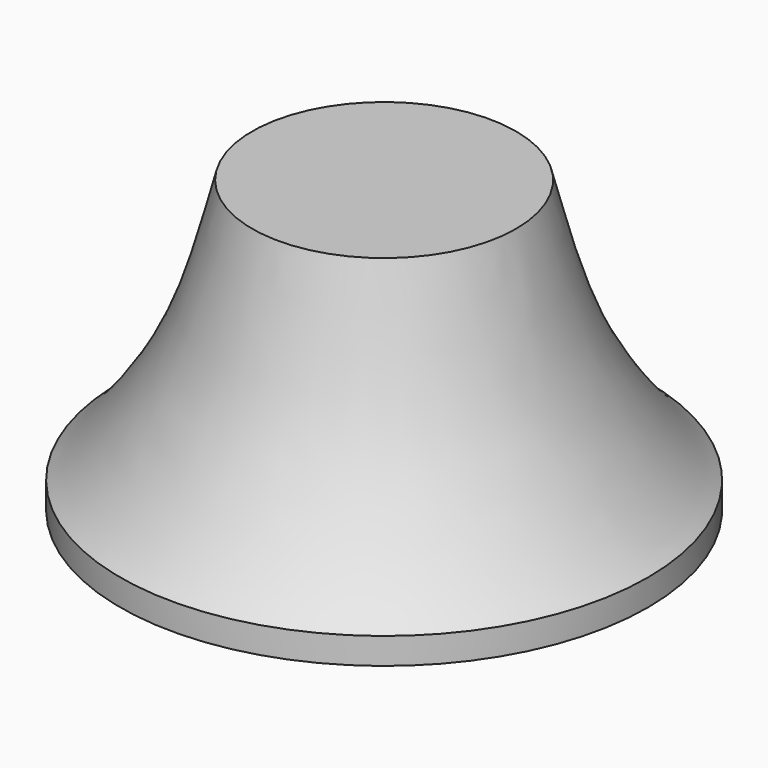
from build123d import *

# Parameters (mm, degrees)
F2_R     = 50
F3_DEPTH = 5
F4_T     = -2.5


with BuildPart() as f1:
    # F0 (on Front) → F1 (revolve)
    with BuildSketch(Plane.XZ):
        with BuildLine():
            Line((25, 50), (0, 50))
            Line((0, 50), (0, 0))
            Line((0, 0), (50, 0))
            add(Edge.make_bspline(
                [(25, 50), (28.0258275564, 38.6), (31.9147522376, 21.2908032716), (46, 3), (50, 0)],
                knots=[0, 0, 0, 0, 0.5293414761, 1, 1, 1, 1], degree=3))
        make_face()
    revolve(axis=Axis((0, 0, 25), (0, 0, 1)))

    # F2 (on face) → F3 (join)
    with BuildSketch(Plane(origin=(0, 0, 0), x_dir=(1, 0, 0), z_dir=(0, 0, -1))):
        Circle(F2_R)
    extrude(amount=F3_DEPTH)

    # F4
    f4_openings = [f1.faces().sort_by_distance(p)[0] for p in [
        (0, 0, -5),
    ]]
    offset(amount=F4_T, openings=f4_openings, kind=Kind.INTERSECTION)


solid = f1.part
